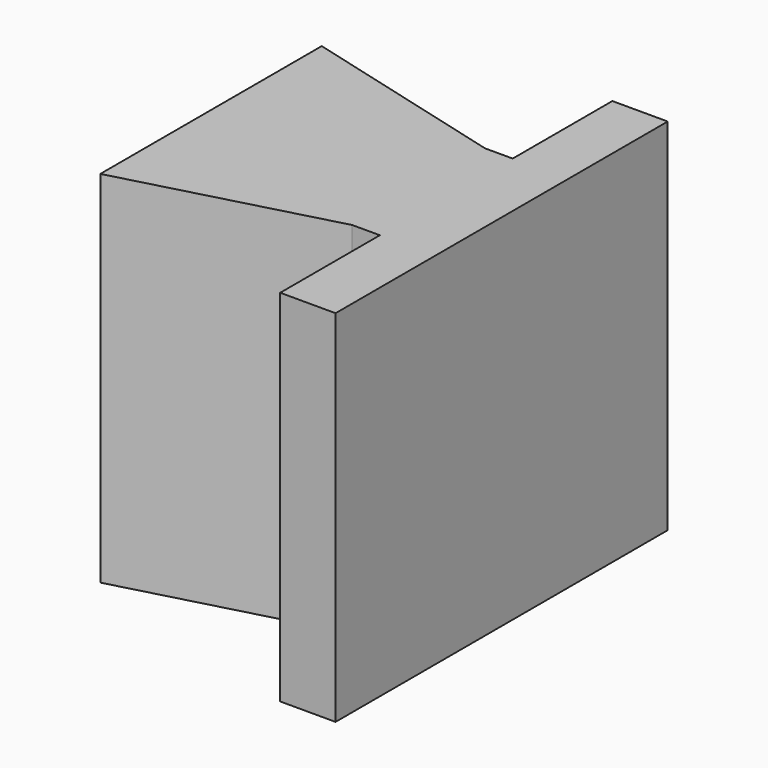
from build123d import *

# Parameters (mm, degrees)
SKETCH023_W       = 10
SKETCH023_H       = 15
PAD013_DEPTH      = 13
POCKET010_DEPTH   = 13.001
POCKET010_FACE1_W = 6
POCKET010_FACE1_H = 13
PAD014_DEPTH      = 1
SKETCH026_W       = 15
SKETCH026_H       = 13
PAD015_DEPTH      = 2


with BuildPart() as part:
    # Sketch023 → Pad013 (new body)
    with BuildSketch(Plane.XY):
        with Locations((5, -7.5)):
            Rectangle(SKETCH023_W, SKETCH023_H)
    extrude(amount=PAD013_DEPTH)

    # Sketch025 (on Face6 of Pad013) → Pocket010 (cut, through all)
    with BuildSketch(Plane.XY.offset(13)):
        Polygon((10, -4.5), (2.5, -2.5), (2.5, -12.5), (10, -10.5), (10, -15), (0, -15), (0, 0), (10, 0), align=None)
    extrude(amount=-POCKET010_DEPTH, mode=Mode.SUBTRACT)

    # Pocket010 Face1 → Pad014 (add)
    with BuildSketch(Plane(origin=(10, -7.5, 6.5), x_dir=(0, -1, 0), z_dir=(1, 0, 0))):
        Rectangle(POCKET010_FACE1_W, POCKET010_FACE1_H)
    extrude(amount=PAD014_DEPTH)

    # Sketch026 (on Face6 of Pad014) → Pad015 (join)
    with BuildSketch(Plane.YZ.offset(11)):
        with Locations((-7.5, 6.5)):
            Rectangle(SKETCH026_W, SKETCH026_H)
    extrude(amount=PAD015_DEPTH)


with BuildPart() as part_1:
    # Body004 placement: moved
    add(part.part.moved(Location((0, 0, 16))))


solid = part_1.part
